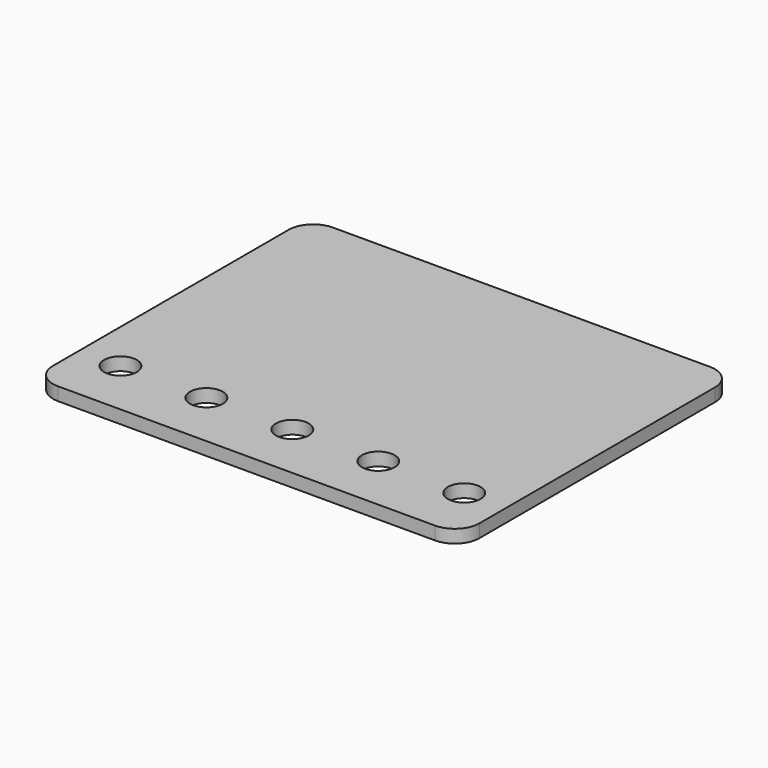
from build123d import *

# Parameters (mm, degrees)
F1_DEPTH = 1.6
F3_D     = 4


with BuildPart() as f1:
    # F0 (on Top) → F1 (new body)
    with BuildSketch(Plane.XY):
        with BuildLine():
            ThreePointArc((0, 3), (0.87868, 0.87868), (3, 0))
            Line((3, 0), (49.1, 0))
            ThreePointArc((49.1, 0), (51.22132, 0.87868), (52.1, 3))
            Line((52.1, 3), (52.1, 39))
            ThreePointArc((52.1, 39), (51.22132, 41.12132), (49.1, 42))
            Line((49.1, 42), (3, 42))
            ThreePointArc((3, 42), (0.87868, 41.12132), (0, 39))
            Line((0, 39), (0, 3))
        make_face()
    extrude(amount=F1_DEPTH)

    # F3 (through all)
    with Locations(Plane.XY.offset(1.6)):
        with Locations((5.05, 7), (15.55, 7), (26.05, 7), (36.55, 7), (47.05, 7)):
            Hole(F3_D / 2)


solid = f1.part
